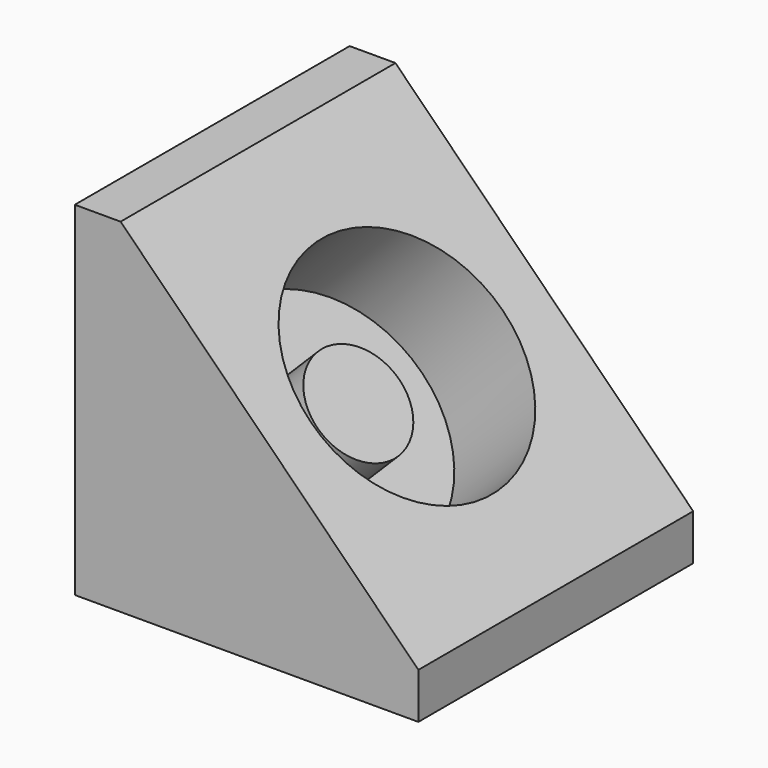
from build123d import *

# Parameters (mm, degrees)
F0_W     = 15
F0_H     = 15
F1_DEPTH = 15
F2_SIZE  = 13
F3_R     = 5.25
F3_R_2   = 2.25
F4_DEPTH = 5
F5_DEPTH = 3


with BuildPart() as f1:
    # F0 (on Top) → F1 (new body)
    with BuildSketch(Plane.XY):
        with Locations((7.5, -7.5)):
            Rectangle(F0_W, F0_H)
    extrude(amount=F1_DEPTH)

    # F2
    f2_edges = [f1.edges().sort_by_distance(p)[0] for p in [
        (15, -7.5, 15),
    ]]
    chamfer(f2_edges, length=F2_SIZE)

    # F3 (on face) → F4 (cut)
    with BuildSketch(Plane(origin=(8.5, 0, 8.5), x_dir=(0, 1, 0), z_dir=(0.7071067812, 0, 0.7071067812))):
        with Locations((-7.5, 0)):
            Circle(F3_R)
        with Locations((-7.5, 0)):
            Circle(F3_R_2, mode=Mode.SUBTRACT)
    extrude(amount=-F4_DEPTH, mode=Mode.SUBTRACT)

    # F5 (cut): a face of the model
    f5_faces = [f1.faces().sort_by_distance(p)[0] for p in [
        (8.5, -7.5, 8.5),
    ]]
    extrude(f5_faces, amount=-F5_DEPTH, mode=Mode.SUBTRACT)


solid = f1.part
